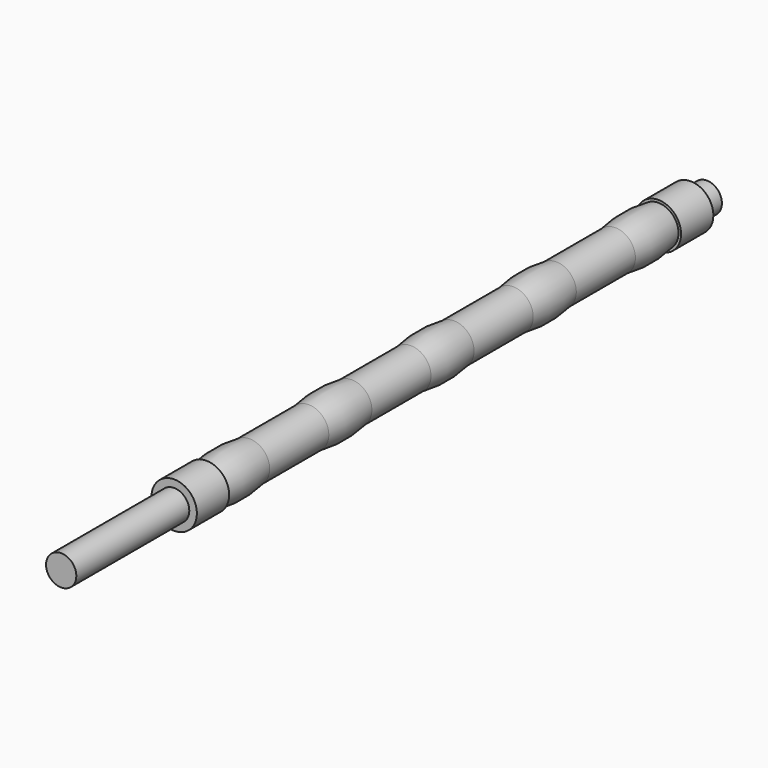
from build123d import *

# Parameters (mm, degrees)
F0_R     = 9.525
F1_DEPTH = 508
F2_W     = 25.4
F2_H     = 1.598958


with BuildPart() as f1:
    # F0 (on Front) → F1 (new body)
    with BuildSketch(Plane.XZ):
        Circle(F0_R)
    extrude(amount=F1_DEPTH)

    # F2 (on Right) → F3 (revolve)
    with BuildSketch(Plane.YZ):
        with BuildLine():
            Line((-419.1, 0), (-12.7, 0))
            Line((-12.7, 0), (-12.7, 14.2875))
            Line((-12.7, 14.2875), (-38.1, 14.2875))
            Line((-38.1, 14.2875), (-38.1, 12.688542))
            ThreePointArc((-38.1, 12.688542), (-55.0545, 14.272647), (-72.009, 12.688542))
            Line((-72.009, 12.688542), (-118.52275, 12.688542))
            ThreePointArc((-118.52275, 12.688542), (-135.47725, 14.254706), (-152.43175, 12.688542))
            Line((-152.43175, 12.688542), (-198.9455, 12.688542))
            ThreePointArc((-198.9455, 12.688542), (-215.9, 14.248869), (-232.8545, 12.688542))
            Line((-232.8545, 12.688542), (-279.3619, 12.688542))
            ThreePointArc((-279.3619, 12.688542), (-296.3164, 14.203309), (-313.2709, 12.688542))
            Line((-313.2709, 12.688542), (-359.791, 12.688542))
            ThreePointArc((-359.791, 12.688542), (-376.7455, 14.265015), (-393.7, 12.688542))
            Line((-393.7, 12.688542), (-419.1, 12.688542))
            Line((-419.1, 12.688542), (-419.1, 0))
        make_face()
        with Locations((-406.4, 13.488021)):
            Rectangle(F2_W, F2_H)
    revolve(axis=Axis((0, 0, 0), (0, 1, 0)))


solid = f1.part
